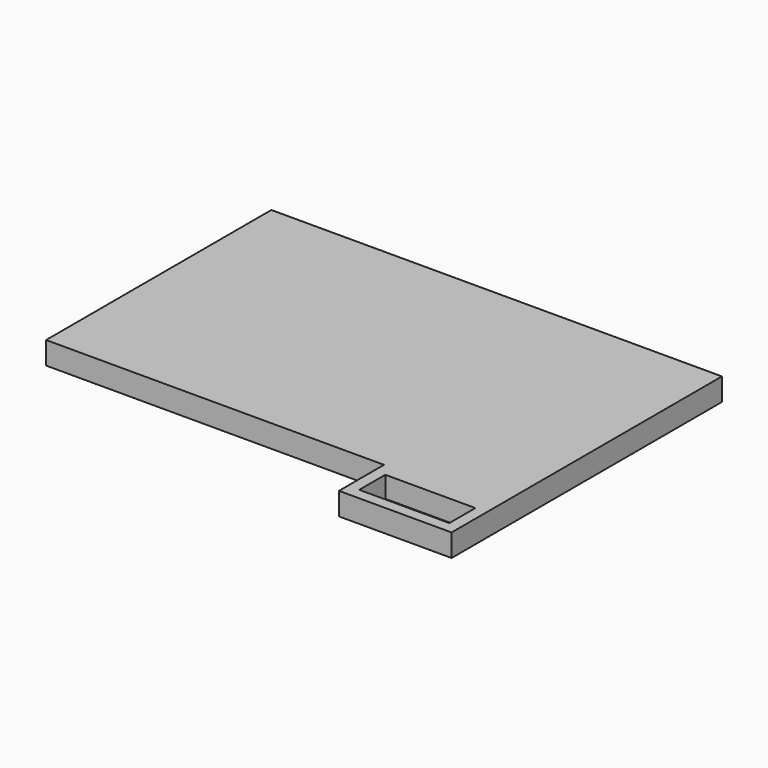
from build123d import *

# Parameters (mm, degrees)
F0_W     = 16
F0_H     = 8
F1_DEPTH = 3.2
F3_DEPTH = 3


with BuildPart() as f1:
    # F0 (on Top) → F1 (new body)
    with BuildSketch(Plane.XY):
        Polygon((64, 0), (0, 0), (0, -40), (48, -40), (64, -40), align=None)
        with Locations((56, -44)):
            Rectangle(F0_W, F0_H)
    extrude(amount=-F1_DEPTH)

    # F2 (on face) → F3 (cut)
    with BuildSketch(Plane.XY):
        Polygon((49.6, -44), (49.6, -46.4), (60.474169, -46.4), (60.474169, -41.776516), (49.6, -41.776516), align=None)
        Polygon((60.474169, -41.776516), (60.474169, -46.4), (62.4, -46.4), (62.4, -43.71665), (62.4, -41.776516), align=None)
    extrude(amount=-F3_DEPTH, mode=Mode.SUBTRACT)


solid = f1.part
